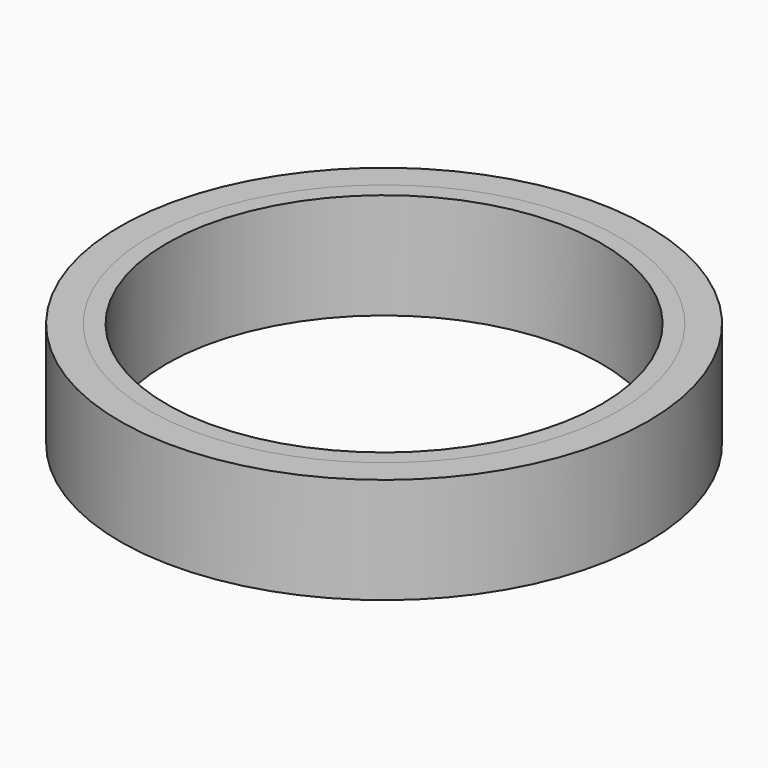
from build123d import *

# Parameters (mm, degrees)
F0_R     = 40.5
F0_R_2   = 37.5
F1_DEPTH = 18.25
F2_R     = 45.5
F2_R_2   = 40.5
F3_DEPTH = 18.25


with BuildPart() as f1:
    # F0 (on Top) → F1 (new body)
    with BuildSketch(Plane.XY):
        Circle(F0_R)
        Circle(F0_R_2, mode=Mode.SUBTRACT)
    extrude(amount=F1_DEPTH)


with BuildPart() as f3:
    # F2 (on face) → F3 (new body, through all)
    with BuildSketch(Plane.XY.offset(18.25)):
        Circle(F2_R)
        Circle(F2_R_2, mode=Mode.SUBTRACT)
    extrude(amount=-F3_DEPTH)


solid = Compound([f1.part, f3.part])
